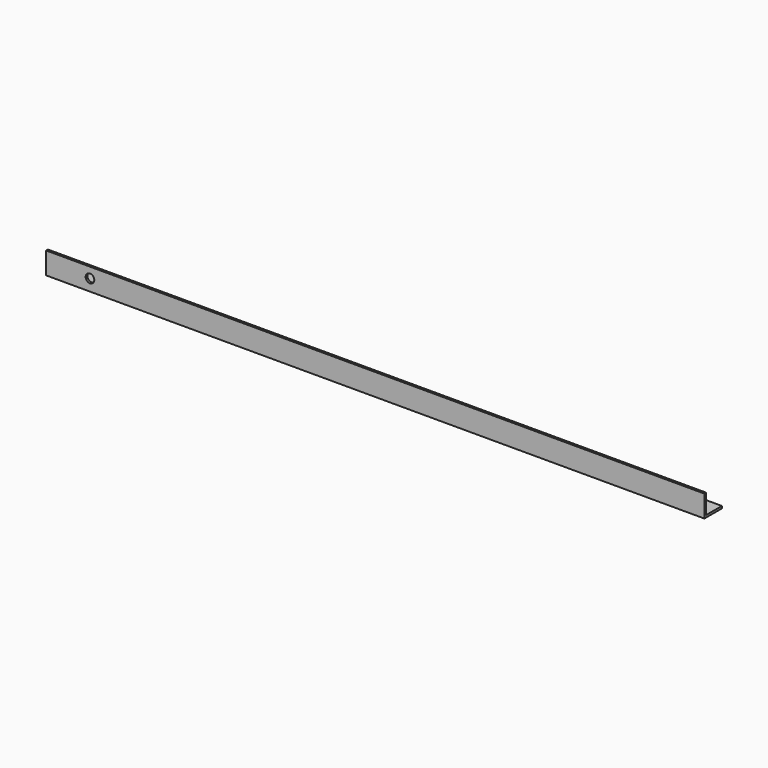
from build123d import *

# Parameters (mm, degrees)
F1_DEPTH = 381
F2_R     = 2.5
F3_DEPTH = 25.4


with BuildPart() as f1:
    # F0 (on Right) → F1 (new body)
    with BuildSketch(Plane.YZ):
        Polygon((0, 12.7), (0, 0), (12.7, 0), (12.7, 1.27), (1.27, 1.27), (1.27, 12.7), align=None)
    extrude(amount=F1_DEPTH)

    # F2 (on face) → F3 (cut)
    with BuildSketch(Plane.XZ):
        with Locations((25.4, 6.7)):
            Circle(F2_R)
    extrude(amount=-F3_DEPTH, mode=Mode.SUBTRACT)


solid = f1.part
